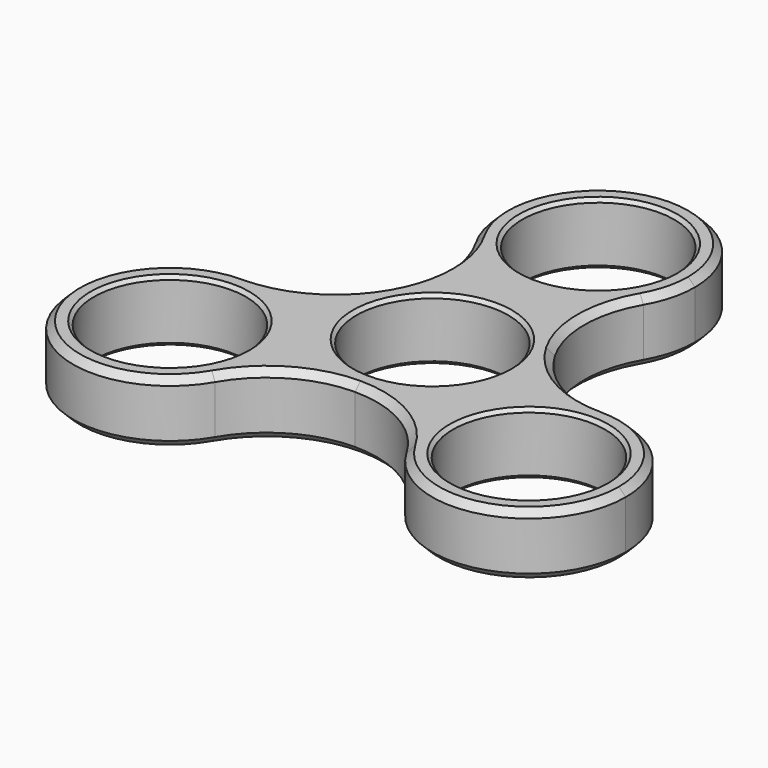
from build123d import *

# Parameters (mm, degrees)
F1_R     = 11
F2_DEPTH = 9
F3_SIZE  = 0.5
F4_SIZE  = 1


with BuildPart() as f2:
    # F1 (on Top) → F2 (new body)
    with BuildSketch(Plane.XY):
        with BuildLine():
            ThreePointArc((12.1243558114, 23.0000002745), (13.5229616091, 26.3765335216), (14, 30))
            ThreePointArc((14, 30), (-3.6234666891, 43.5229615526), (-12.1243555933, 22.9999998966))
            ThreePointArc((-12.1243555933, 22.9999998966), (2.181e-07, 16), (12.1243558114, 23.0000002745))
        make_face()
        with Locations((0, 30)):
            Circle(F1_R, mode=Mode.SUBTRACT)
        with BuildLine():
            ThreePointArc((39.9807621135, -15), (35.8802570426, -5.1005050558), (25.9807620921, -1))
            ThreePointArc((25.9807620921, -1), (13.8564063651, -8.0000001654), (13.8564066408, -22.0000003122))
            ThreePointArc((13.8564066408, -22.0000003122), (29.6042289191, -28.5229615214), (39.9807621135, -15))
        make_face()
        with Locations((25.9807621135, -15)):
            Circle(F1_R, mode=Mode.SUBTRACT)
        with BuildLine():
            ThreePointArc((-11.9807621135, -15), (-16.0812671769, -5.1005050634), (-25.9807621135, -1))
            ThreePointArc((-25.9807621135, -1), (-38.105117752, -22.0000000252), (-13.8564064315, -21.9999999496))
            ThreePointArc((-13.8564064315, -21.9999999496), (-12.457800538, -18.6234666034), (-11.9807621135, -15))
        make_face()
        with Locations((-25.9807621135, -15)):
            Circle(F1_R, mode=Mode.SUBTRACT)
        with BuildLine():
            ThreePointArc((-12.1243554957, 7.0000002723), (-17.9807619774, 1.1435936181), (-25.9807621135, -1))
            ThreePointArc((-25.9807621135, -1), (-16.0812671769, -5.1005050634), (-11.9807621135, -15))
            ThreePointArc((-11.9807621135, -15), (-12.457800538, -18.6234666034), (-13.8564064315, -21.9999999496))
            ThreePointArc((-13.8564064315, -21.9999999496), (-7.9999999748, -16.1435935249), (0, -14))
            ThreePointArc((0, -14), (-12.1243557316, -6.9999998638), (-12.1243554957, 7.0000002723))
        make_face()
        with BuildLine():
            ThreePointArc((25.9807620921, -1), (17.9807619484, 1.1435936348), (12.124355473, 7.0000003117))
            ThreePointArc((12.124355473, 7.0000003117), (13.5229615215, 3.6234668052), (14, 0))
            ThreePointArc((14, 0), (9.8994949366, -9.8994949366), (0, -14))
            ThreePointArc((0, -14), (8.0000001561, -16.1435936296), (13.8564066408, -22.0000003122))
            ThreePointArc((13.8564066408, -22.0000003122), (13.8564063651, -8.0000001654), (25.9807620921, -1))
        make_face()
        with BuildLine():
            ThreePointArc((12.1243558114, 23.0000002745), (2.181e-07, 16), (-12.1243555933, 22.9999998966))
            ThreePointArc((-12.1243555933, 22.9999998966), (-10.5259488775, 19.141104664), (-9.9807621135, 15))
            ThreePointArc((-9.9807621135, 15), (-10.5259488522, 10.8588954302), (-12.1243554957, 7.0000002723))
            ThreePointArc((-12.1243554957, 7.0000002723), (-2.27e-08, 14), (12.124355473, 7.0000003117))
            ThreePointArc((12.124355473, 7.0000003117), (9.9807621135, 15.0000003384), (12.1243558114, 23.0000002745))
        make_face()
        with BuildLine():
            ThreePointArc((14, 0), (13.5229615215, 3.6234668052), (12.124355473, 7.0000003117))
            ThreePointArc((12.124355473, 7.0000003117), (-2.27e-08, 14), (-12.1243554957, 7.0000002723))
            ThreePointArc((-12.1243554957, 7.0000002723), (-12.1243557316, -6.9999998638), (0, -14))
            ThreePointArc((0, -14), (9.8994949366, -9.8994949366), (14, 0))
        make_face()
        Circle(F1_R, mode=Mode.SUBTRACT)
    extrude(amount=F2_DEPTH)

    # F3
    f3_edges = [f2.edges().sort_by_distance(p)[0] for p in [
        (-36.980762, -15, 9),
        (-11, 0, 9),
        (-11, 30, 9),
        (14.980762, -15, 9),
        (-36.980762, -15, 0),
        (-11, 0, 0),
        (14.980762, -15, 0),
        (-11, 30, 0),
    ]]
    chamfer(f3_edges, length=F3_SIZE)

    # F4
    f4_edges = [f2.edges().sort_by_distance(p)[0] for p in [
        (-38.105118, -22, 9),
        (0, -14, 9),
        (-12.124356, 7, 9),
        (0, 44, 9),
        (12.124356, 7, 9),
        (38.105118, -22, 9),
        (0, -14, 0),
        (-38.105118, -22, 0),
        (-12.124356, 7, 0),
        (0, 44, 0),
        (12.124356, 7, 0),
        (38.105118, -22, 0),
    ]]
    chamfer(f4_edges, length=F4_SIZE)


solid = f2.part
